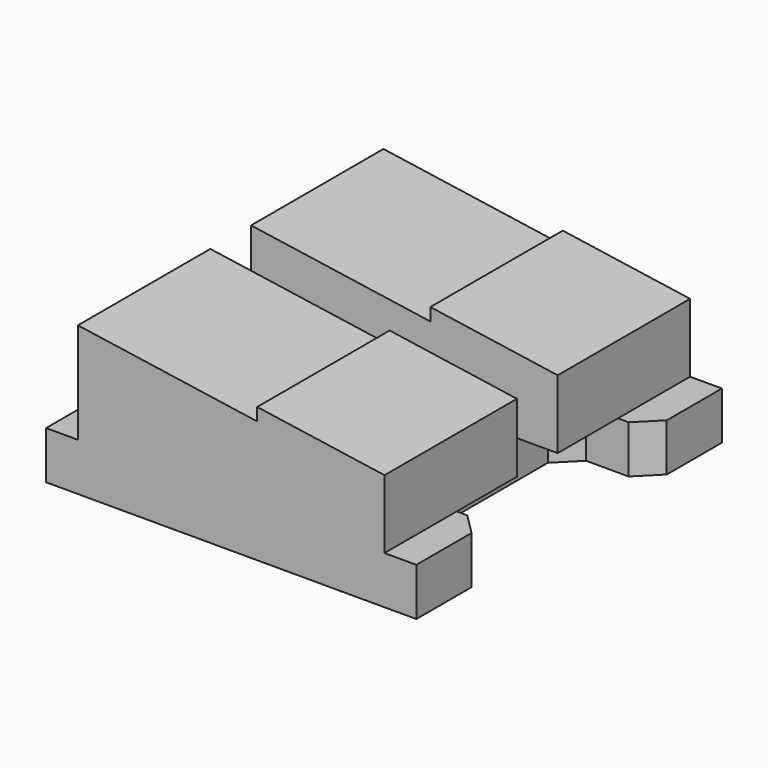
from build123d import *

# Parameters (mm, degrees)
PAD010_DEPTH     = 18
SKETCH020_W      = 17.45
SKETCH020_H      = 2.4
POCKET011_DEPTH  = 6.75
SKETCH021_W      = 6
SKETCH021_H      = 6
PAD011_DEPTH     = 0.75
SKETCH022_W      = 4
SKETCH022_H      = 9.5
POCKET012_DEPTH  = 1
CHAMFER_SIZE     = 1
CHAMFER_FACE23_W = 6
CHAMFER_FACE23_H = 0.75
PAD012_DEPTH     = 12
PAD013_DEPTH     = 0.75
PAD014_DEPTH     = 0.5


with BuildPart() as part:
    # Sketch019 → Pad010 (new body)
    with BuildSketch(Plane.XZ):
        Polygon((21.151384, 8.480667), (15.151384, 9.360667), (15.151384, 8.760667), (6.701384, 10), (6.701384, 5.25), (5.201384, 5.25), (5.201384, 4.25), (22.651384, 4.25), (22.651384, 5.25), (21.151384, 5.25), align=None)
    extrude(amount=PAD010_DEPTH)

    # Sketch020 → Pocket011 (cut)
    with BuildSketch(Plane.XY.offset(12)):
        with Locations((13.926384, -9)):
            Rectangle(SKETCH020_W, SKETCH020_H)
    extrude(amount=-POCKET011_DEPTH, mode=Mode.SUBTRACT)

    # Sketch021 (on Face11 of Pocket011) → Pad011 (join)
    with BuildSketch(Plane(origin=(0, 0, 4.25), x_dir=(1, 0, 0), z_dir=(0, 0, -1))):
        with Locations((8.201384, 3)):
            Rectangle(SKETCH021_W, SKETCH021_H)
    extrude(amount=PAD011_DEPTH)

    # Sketch022 (on Face13 of Pad011) → Pocket012 (cut)
    with BuildSketch(Plane(origin=(0, 0, 4.25), x_dir=(1, 0, 0), z_dir=(0, 0, -1))):
        with Locations((20.651384, 9)):
            Rectangle(SKETCH022_W, SKETCH022_H)
    extrude(amount=-POCKET012_DEPTH, mode=Mode.SUBTRACT)

    # Chamfer
    chamfer_edges = [part.edges().sort_by_distance(p)[0] for p in [
        (18.651384, -4.25, 4.75),
        (18.651384, -13.75, 4.75),
        (22.651384, -4.25, 4.75),
        (22.651384, -13.75, 4.75),
    ]]
    chamfer(chamfer_edges, length=CHAMFER_SIZE)

    # Chamfer Face23 → Pad012 (add)
    with BuildSketch(Plane(origin=(8.201384, -6, 3.875), x_dir=(-1, 0, 0), z_dir=(0, -1, 0))):
        Rectangle(CHAMFER_FACE23_W, CHAMFER_FACE23_H)
    extrude(amount=PAD012_DEPTH)

    # Pad012 Face7 → Pad013 (add)
    with BuildSketch(Plane(origin=(16.064496, -9, 4.25), x_dir=(0, -1, 0), z_dir=(0, 0, -1))):
        Polygon((-5.75, -6.586888), (-4.75, -5.586888), (-4.75, -3.586888), (-3.75, -2.586888), (3.75, -2.586888), (4.75, -3.586888), (4.75, -5.586888), (5.75, -6.586888), (9, -6.586888), (9, 4.863112), (-9, 4.863112), (-9, -6.586888), align=None)
    extrude(amount=PAD013_DEPTH)

    # Pad013 Face25 → Pad014 (add)
    with BuildSketch(Plane(origin=(12.988741, -9, 3.5), x_dir=(0, -1, 0), z_dir=(0, 0, -1))):
        Polygon((-5.75, -9.662643), (-4.75, -8.662643), (-4.75, -6.662643), (-3.75, -5.662643), (3.75, -5.662643), (4.75, -6.662643), (4.75, -8.662643), (5.75, -9.662643), (9, -9.662643), (9, 7.787357), (-9, 7.787357), (-9, -9.662643), align=None)
    extrude(amount=PAD014_DEPTH)


with BuildPart() as part_1:
    # Body004 placement: moved
    add(part.part.moved(Location((0, -37.5, 0))))


solid = part_1.part
